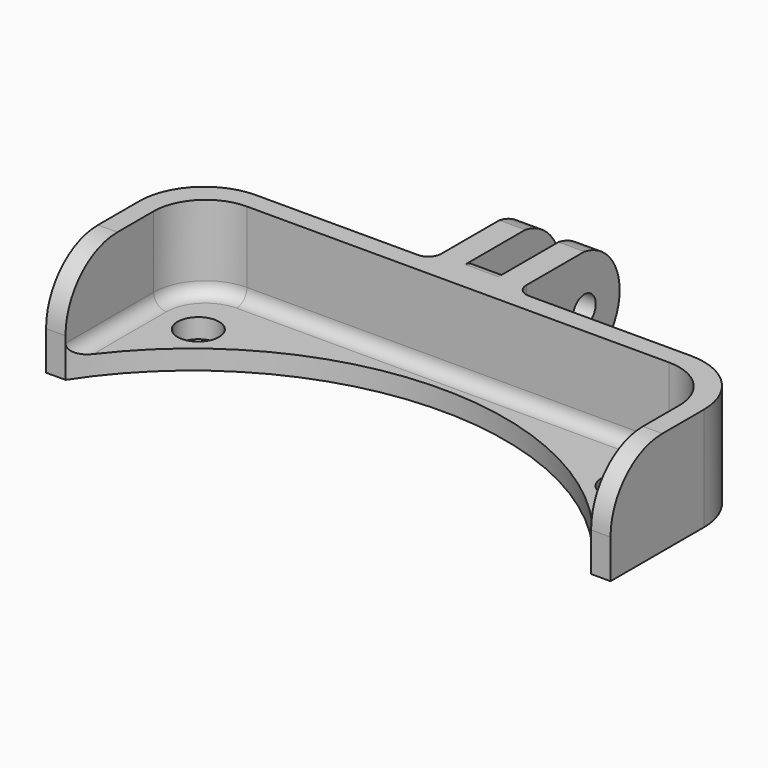
from build123d import *

# Parameters (mm, degrees)
F1_DEPTH = 8
F0_R     = 1.6
F2_DEPTH = 1.5
F3_R     = 1.1
F4_DEPTH = 8
F3_R_2   = 1.4
F5_DEPTH = 2.4
F6_R     = 1
F7_R     = 5


with BuildPart() as f1:
    # F0 (on Top) → F1 (new body)
    with BuildSketch(Plane.XY):
        with BuildLine():
            Line((1.28, 0), (0, 0))
            Line((0, 0), (-1.28, 0))
            Line((-1.28, 0), (-1.28, 8.2))
            Line((-1.28, 8.2), (-3.28, 8.2))
            Line((-3.28, 8.2), (-3.28, -1.8))
            Line((-3.28, -1.8), (-16.78, -1.8))
            ThreePointArc((-16.78, -1.8), (-20.3155339059, -3.2644660941), (-21.78, -6.8))
            Line((-21.78, -6.8), (-21.78, -15.8))
            Line((-21.78, -15.8), (-20.28, -15.8))
            Line((-20.28, -15.8), (-20.28, -7.3))
            ThreePointArc((-20.28, -7.3), (-19.1084271247, -4.4715728753), (-16.28, -3.3))
            Line((-16.28, -3.3), (0, -3.3))
            Line((0, -3.3), (16.28, -3.3))
            ThreePointArc((16.28, -3.3), (19.1084271247, -4.4715728753), (20.28, -7.3))
            Line((20.28, -7.3), (20.28, -15.8))
            Line((20.28, -15.8), (21.78, -15.8))
            Line((21.78, -15.8), (21.78, -6.8))
            ThreePointArc((21.78, -6.8), (20.3155339059, -3.2644660941), (16.78, -1.8))
            Line((16.78, -1.8), (3.28, -1.8))
            Line((3.28, -1.8), (3.28, 8.2))
            Line((3.28, 8.2), (1.28, 8.2))
            Line((1.28, 8.2), (1.28, 0))
        make_face()
    extrude(amount=F1_DEPTH)

    # F0 (on Top) → F2 (join)
    with BuildSketch(Plane.XY):
        with BuildLine():
            ThreePointArc((-20.28, -15.8), (0, -4.8), (20.28, -15.8))
            Line((20.28, -15.8), (20.28, -7.3))
            ThreePointArc((20.28, -7.3), (19.1084271247, -4.4715728753), (16.28, -3.3))
            Line((16.28, -3.3), (0, -3.3))
            Line((0, -3.3), (-16.28, -3.3))
            ThreePointArc((-16.28, -3.3), (-19.1084271247, -4.4715728753), (-20.28, -7.3))
            Line((-20.28, -7.3), (-20.28, -15.8))
        make_face()
        with Locations((-16.35, -7.9)):
            Circle(F0_R, mode=Mode.SUBTRACT)
        with Locations((16.35, -7.9)):
            Circle(F0_R, mode=Mode.SUBTRACT)
    extrude(amount=F2_DEPTH)

    # F3 (on face) → F4 (cut)
    with BuildSketch(Plane(origin=(-3.28, 0, 0), x_dir=(0, -1, 0), z_dir=(-1, 0, 0))):
        with Locations((-4.8, 4)):
            Circle(F3_R)
        with BuildLine():
            ThreePointArc((-4.8, 0), (-7.2351540584, 1.3751190503), (-8.2, 4))
            Line((-8.2, 4), (-8.2, 0))
            Line((-8.2, 0), (-4.8, 0))
        make_face()
        with BuildLine():
            ThreePointArc((-8.2, 4), (-7.2351540584, 6.6248809497), (-4.8, 8))
            Line((-4.8, 8), (-8.2, 8))
            Line((-8.2, 8), (-8.2, 4))
        make_face()
    extrude(amount=-F4_DEPTH, mode=Mode.SUBTRACT)

    # F3 (on face) → F5 (cut)
    with BuildSketch(Plane(origin=(-3.28, 0, 0), x_dir=(0, -1, 0), z_dir=(-1, 0, 0))):
        with Locations((-4.8, 4)):
            Circle(F3_R_2)
        with Locations((-4.8, 4)):
            Circle(F3_R, mode=Mode.SUBTRACT)
    extrude(amount=-F5_DEPTH, mode=Mode.SUBTRACT)

    # F6
    f6_edges = [f1.edges().sort_by_distance(p)[0] for p in [
        (-20.28, -11.55, 1.5),
        (-3.28, -1.8, 4),
        (3.28, -1.8, 4),
        (0, 0, 8),
        (0, 0, 0),
    ]]
    fillet(f6_edges, radius=F6_R)

    # F7
    f7_edges = [f1.edges().sort_by_distance(p)[0] for p in [
        (-21.03, -15.8, 8),
        (21.03, -15.8, 8),
    ]]
    fillet(f7_edges, radius=F7_R)


solid = f1.part
